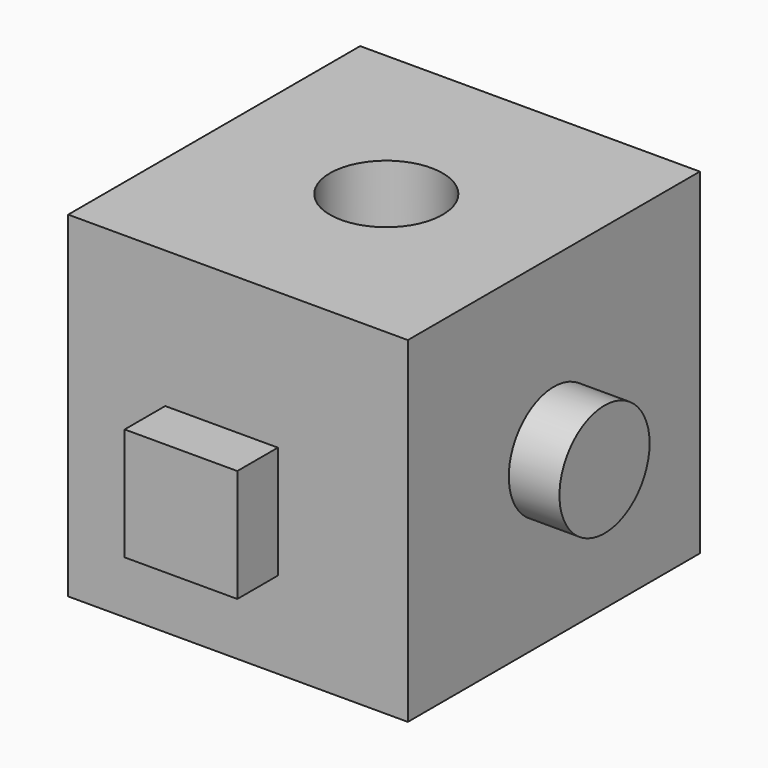
from build123d import *

# Parameters (mm, degrees)
F0_W     = 76.5958726406
F0_H     = 75.7986828685
F1_DEPTH = 41.148
F3_D     = 25.4
F4_W     = 25.4
F4_H     = 25.4
F5_DEPTH = 11.43
F6_R     = 12.7
F7_DEPTH = 11.43


with BuildPart() as f1:
    # F0 (on Front) → F1 (new body, symmetric)
    with BuildSketch(Plane.XZ):
        with Locations((38.2979363203, 37.8993414342)):
            Rectangle(F0_W, F0_H)
    extrude(amount=F1_DEPTH, both=True)

    # F3 (through all)
    with Locations(Plane.XY.offset(75.7986828685)):
        with Locations((38.8162694871, 0)):
            Hole(F3_D / 2)

    # F4 (on face) → F5 (join)
    with BuildSketch(Plane.XZ.offset(41.148)):
        with Locations((34.5825459808, 32.216026066)):
            Rectangle(F4_W, F4_H)
    extrude(amount=F5_DEPTH)

    # F6 (on face) → F7 (join)
    with BuildSketch(Plane.YZ.offset(76.5958726406)):
        with Locations((0, 37.119705635)):
            Circle(F6_R)
    extrude(amount=F7_DEPTH)


solid = f1.part
